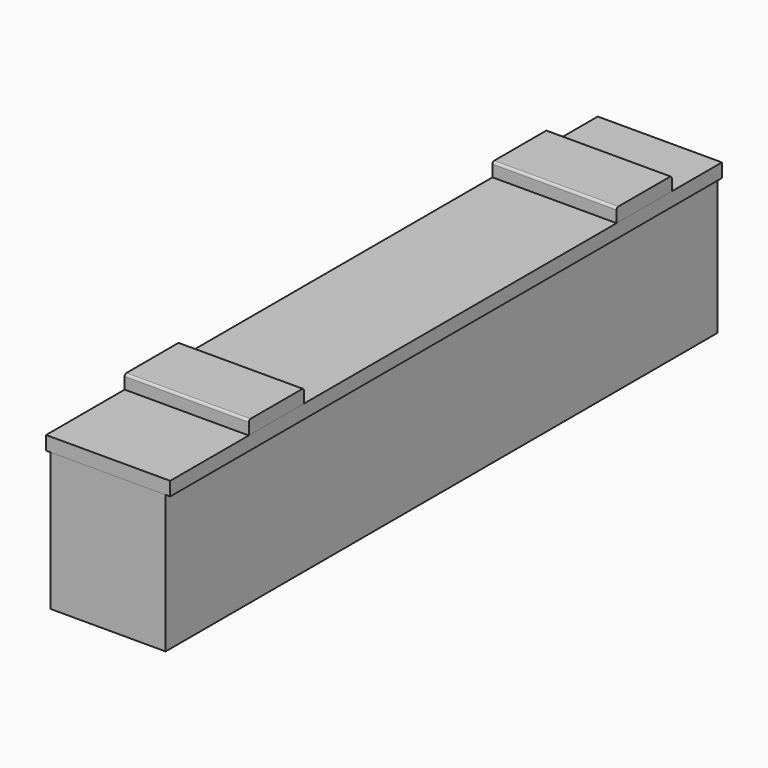
from build123d import *

# Parameters (mm, degrees)
F0_W          = 1500
F0_H          = 300
F1_DEPTH      = 250
F2_DEPTH      = 260
F2_DEPTH_BACK = 10
F3_DEPTH      = 260
F3_DEPTH_BACK = 10


with BuildPart() as f1:
    # F0 (on Right) → F1 (new body)
    with BuildSketch(Plane.YZ):
        with Locations((-29.81638, 44.679458)):
            Rectangle(F0_W, F0_H)
    extrude(amount=F1_DEPTH)


with BuildPart() as f2:
    # F0 (on Right) → F2 (new body, two sides)
    with BuildSketch(Plane.YZ) as f2_sk:
        Polygon((-779.81638, 224.679458), (-779.81638, 194.679458), (720.18362, 194.679458), (720.18362, 224.679458), (583.808833, 224.679458), (433.808833, 224.679458), (-416.191167, 224.679458), (-566.191167, 224.679458), align=None)
    extrude(amount=F2_DEPTH)
    extrude(f2_sk.sketch, amount=-F2_DEPTH_BACK)


with BuildPart() as f3:
    # F0 (on Right) → F3 (new body, two sides)
    with BuildSketch(Plane.YZ) as f3_sk:
        with BuildLine():
            Line((-566.191167, 249.679458), (-566.191167, 224.679458))
            Line((-566.191167, 224.679458), (-416.191167, 224.679458))
            Line((-416.191167, 224.679458), (-416.191167, 249.679458))
            ThreePointArc((-416.191167, 249.679458), (-417.655633, 253.214991), (-421.191167, 254.679458))
            Line((-421.191167, 254.679458), (-561.191167, 254.679458))
            ThreePointArc((-561.191167, 254.679458), (-564.726701, 253.214991), (-566.191167, 249.679458))
        make_face()
        with BuildLine():
            Line((433.808833, 224.679458), (583.808833, 224.679458))
            Line((583.808833, 224.679458), (583.808833, 249.679458))
            ThreePointArc((583.808833, 249.679458), (582.344367, 253.214991), (578.808833, 254.679458))
            Line((578.808833, 254.679458), (438.808833, 254.679458))
            ThreePointArc((438.808833, 254.679458), (435.273299, 253.214991), (433.808833, 249.679458))
            Line((433.808833, 249.679458), (433.808833, 224.679458))
        make_face()
    extrude(amount=F3_DEPTH)
    extrude(f3_sk.sketch, amount=-F3_DEPTH_BACK)


solid = Compound([f1.part, f2.part, f3.part])
